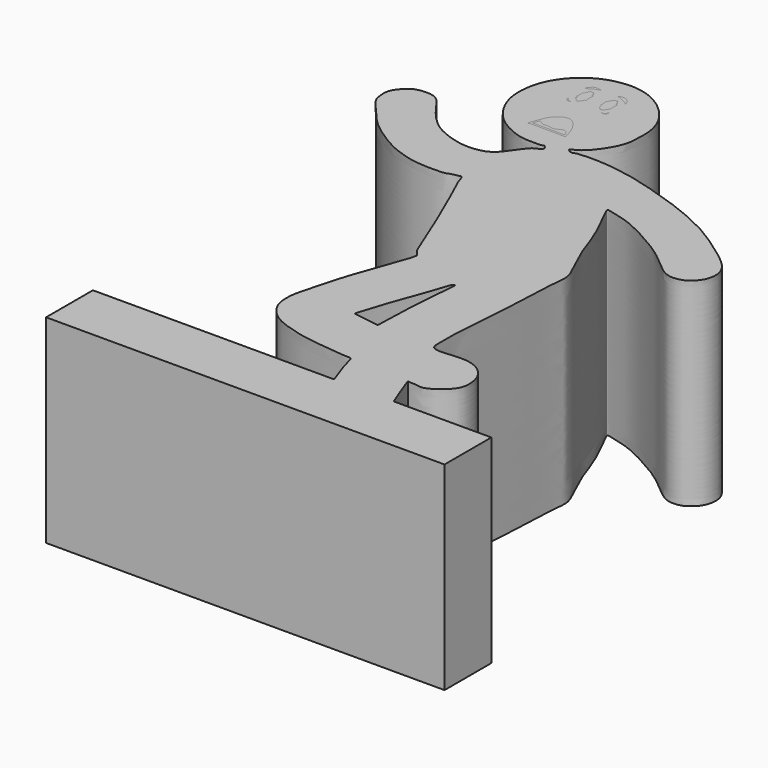
from build123d import *

# Parameters (mm, degrees)
F1_DEPTH = 25.4
F3_DEPTH = 13.208
F4_W     = 50.9416204877
F4_H     = 7.4829496443
F5_DEPTH = 25.4


with BuildPart() as f1:
    # F0 (on Top) → F1 (new body)
    with BuildSketch(Plane.XY):
        with BuildLine():
            add(Edge.make_bspline(
                [(-21.08993195, 9.5600765198), (-21.1685897692, 9.4091182705), (-20.0594582307, 6.6910455314), (-19.1162698159, 4.4145066263), (-19.1494936448, 2.1955928752), (-20.7855126949, 0.2980433548), (-22.3960605382, -0.1274099975), (-24.5052316811, 0.2180920194), (-26.0347691851, 1.4667257913), (-26.6860856519, 4.2843189604), (-28.3852424032, 8.4455278658), (-28.5500824364, 10.0588710768), (-29.4261054338, 9.9297894195), (-31.6957999065, 10.2354212597), (-35.2294887871, 10.5220681782), (-38.9333990973, 11.638606142), (-40.4136311395, 12.6662931309), (-41.3050580251, 13.7311524075), (-41.8752837502, 14.9890735413), (-41.8721922567, 16.4563419307), (-41.7795510658, 17.5719369282), (-40.8533712889, 20.7426107687), (-40.3241774154, 22.9342111756), (-38.649990151, 27.7449240828), (-37.5047599371, 30.7015941127), (-37.5008421698, 31.1432929818), (-37.3606951431, 31.4200321338), (-38.0759170468, 32.0404645519), (-38.746667055, 33.8324144748), (-42.4715972703, 43.0314112934), (-44.2480233196, 46.329761161), (-44.4766088252, 47.5887018031), (-44.8835458012, 47.4760625587), (-45.3968978327, 47.38658875), (-45.9654725869, 47.2544124041), (-46.3092938738, 47.0149404841), (-48.2191451564, 46.9493456256), (-50.4229157415, 47.0819866858), (-52.2507103004, 47.6179288897), (-53.9968632307, 48.2396985342), (-56.2935673274, 49.6302312695), (-58.521335915, 51.259221679), (-60.1099198349, 53.297741144), (-61.7054631646, 54.9664305062), (-61.8788460096, 55.9773840502), (-62.0519767026, 57.325438883), (-61.1312417523, 58.5822296259), (-60.2409778098, 59.4050358096), (-58.5000839274, 59.6297203259), (-56.9063099964, 59.2428635017), (-55.395364805, 56.6292619624), (-53.2088079788, 54.4675655111), (-51.2434970465, 53.567971098), (-49.0893888583, 52.893970619), (-46.6469958819, 52.9509785632), (-44.8954373392, 53.8387946504), (-43.3889679849, 56.3954003879), (-42.6763089855, 56.9045754709), (-41.6911584893, 57.2281018658), (-42.3470273889, 58.031093038), (-42.5551227729, 57.7352813384), (-43.4721167819, 57.7571739854), (-45.1413560911, 57.766126393), (-46.6478574066, 58.2693553489), (-48.9985948597, 59.4571698556), (-50.8471736567, 61.8544217), (-51.6713134269, 64.3749296156), (-51.5626608604, 66.6319696638), (-51.1316898017, 68.3606887752), (-50.0218514343, 70.4440888794), (-48.0916651844, 72.1608308981), (-46.1105464139, 73.1011703865), (-43.5250094612, 73.5307339381), (-41.0530919304, 73.0579949819), (-38.5571021579, 71.583928623), (-36.5907637264, 69.1904423979), (-35.9555416361, 66.7694498913), (-36.0277449357, 64.7289945636), (-36.1711942192, 62.9654313981), (-37.6680610198, 60.4268266922), (-39.1106194457, 59.0772907364), (-40.1678216107, 58.8681336033), (-39.3049098904, 58.3084046117), (-38.988219688, 58.606135063), (-36.8497346997, 58.7332564089), (-34.0993440938, 58.5742671077), (-30.4123179463, 57.8957169478), (-26.6463001352, 56.7070394361), (-22.9657298346, 55.5009834162), (-18.5111187391, 53.4659860837), (-15.0305123546, 51.025777396), (-12.1716292828, 48.9023451337), (-11.2659016375, 47.045883616), (-11.706601054, 45.0795252595), (-12.7958267044, 44.1381711249), (-13.3769251109, 43.7615580271), (-15.1256093501, 43.4136840272), (-16.8246632838, 44.6879524058), (-18.0874699339, 45.7960147009), (-19.6177851366, 47.065920986), (-22.7519190258, 48.9062774728), (-25.8148761691, 50.425509161), (-28.299291266, 50.9186805521), (-29.1133378581, 51.1942513526), (-26.3408626204, 46.4429851819), (-25.3346955398, 42.6965569488), (-23.8830854231, 39.800518843), (-22.6639131467, 37.2366900791), (-23.0379945558, 35.4548972084), (-23.2499594957, 27.1257569454), (-23.9554703909, 20.5251210195), (-23.8085329164, 18.4358688756), (-23.9813732512, 16.4316921182), (-21.1345234347, 16.8127187332), (-18.4169214436, 16.8651242008), (-16.2981757912, 15.1998419699), (-15.8701304511, 12.9556997591), (-16.2198382227, 11.3795080904), (-17.9520673441, 9.9045887348), (-19.2175372275, 9.3074792056), (-20.1194259067, 9.5829552252), (-20.7509358945, 9.534248648), (-20.9608952849, 9.5833016484), (-21.0251809739, 9.5740223583), (-21.0779912686, 9.5829927966), (-21.08993195, 9.5600765198)],
                knots=[0, 0, 0, 0, 0.009512036, 0.0193000241, 0.0275298232, 0.0363054, 0.0436477357, 0.0518791237, 0.0595774742, 0.0694534869, 0.0819406321, 0.0884969231, 0.0930363716, 0.1016281294, 0.1128467842, 0.124171932, 0.1317934205, 0.1384310583, 0.1451866068, 0.1519689866, 0.1582045741, 0.1684009328, 0.177466832, 0.1907114802, 0.2008066994, 0.2042435751, 0.2069768218, 0.2118851901, 0.2199022787, 0.238232844, 0.249818804, 0.255262125, 0.258360081, 0.2626439341, 0.2669594852, 0.2705540297, 0.2783058949, 0.2871494754, 0.2950181836, 0.3028301367, 0.3122661655, 0.3218901027, 0.3313201231, 0.3398893951, 0.3456116796, 0.3521243495, 0.3591573943, 0.3654723586, 0.3728851599, 0.3799678362, 0.3898290577, 0.4000159764, 0.4084163792, 0.4170591852, 0.4258957359, 0.433979101, 0.4437002232, 0.449298396, 0.4542484982, 0.4589564644, 0.4616957086, 0.4670049856, 0.4745076146, 0.4818017352, 0.4910483252, 0.5010669823, 0.5104300306, 0.5189625149, 0.5266196212, 0.5354078276, 0.544624495, 0.5531578562, 0.5623683939, 0.5714496588, 0.5812105171, 0.591295994, 0.6003493305, 0.6084539834, 0.6160931824, 0.6259760731, 0.6342703201, 0.6388424786, 0.6434404955, 0.6470047014, 0.6550669462, 0.6649305241, 0.6760916798, 0.6875554155, 0.6989611204, 0.7117011174, 0.7238035, 0.7345465128, 0.7425295231, 0.7504441058, 0.7571354385, 0.7619260276, 0.7692368512, 0.77753439, 0.7849997987, 0.7930517718, 0.8040401049, 0.815130669, 0.8241711921, 0.8272391589, 0.839602283, 0.8518919706, 0.8622149685, 0.8715066854, 0.8790817383, 0.895784608, 0.9109508946, 0.9192472521, 0.9260745674, 0.9348597964, 0.9446207431, 0.953656471, 0.9620915777, 0.969270306, 0.9778553876, 0.9845741952, 0.990041184, 0.9945854296, 0.9971060556, 0.9985560216, 1, 1, 1, 1], degree=3))
        make_face()
        with BuildLine():
            add(Edge.make_bspline(
                [(-34.4305485487, 17.796754837), (-34.4026945918, 17.8923491272), (-33.6973047797, 20.3218925377), (-32.7902747785, 22.7928631435), (-31.1113825852, 27.3780762037), (-30.8104349498, 28.5836832004), (-30.3152577004, 29.0164002105), (-30.5677135826, 27.1195554184), (-30.959086027, 22.0318057631), (-31.0604014619, 17.764608519), (-31.0686167549, 17.1871771159), (-31.5941528623, 17.2567851558), (-34.0871812587, 17.6437537922), (-34.4742678391, 17.6978508425), (-34.447567195, 17.7373132407), (-34.4338033787, 17.7856569326), (-34.432826172, 17.788938074), (-34.4305485487, 17.796754837)],
                knots=[0, 0, 0, 0, 0.0889001791, 0.1982880398, 0.3301073443, 0.3966527092, 0.4288488125, 0.4963925064, 0.6412947637, 0.7647719035, 0.8002832613, 0.8397151536, 0.9379310967, 0.9703342491, 0.9796618586, 0.9927306157, 1, 1, 1, 1], degree=3))
        make_face(mode=Mode.SUBTRACT)
    extrude(amount=F1_DEPTH)

    # F4 (on Top) → F5 (join)
    with BuildSketch(Plane.XY):
        with Locations((-32.522050431, 1.5829317272)):
            Rectangle(F4_W, F4_H)
    extrude(amount=F5_DEPTH)


with BuildPart() as f3:
    # F2 (on face) → F3 (new body)
    with BuildSketch(Plane.XY.offset(25.4)):
        with BuildLine():
            add(Edge.make_bspline(
                [(-46.6365478933, 60.6375560164), (-46.675144364, 60.6701802166), (-46.5714934911, 61.2290564219), (-46.1133918413, 62.1691243676), (-45.9535418545, 62.8131049377), (-45.1360397478, 63.7073873968), (-44.6966207843, 63.9342376844), (-44.2027851191, 64.0441890848), (-43.6072497846, 63.967389124), (-42.8252698154, 63.2025393795), (-42.1915873664, 61.9728373553), (-41.9712361279, 60.9823966932), (-41.82407912, 60.6713915953), (-42.4137187954, 60.7360554789), (-44.7362982177, 60.660211459), (-46.4065365457, 60.8119383979), (-46.613910747, 60.6184216557), (-46.6365478933, 60.6375560164)],
                knots=[0, 0, 0, 0, 0.0527119518, 0.1312013969, 0.1936127972, 0.2735714957, 0.3264163928, 0.3774960849, 0.433025558, 0.5091339716, 0.5991014845, 0.6741767995, 0.7079464738, 0.7542536169, 0.8723862177, 0.9690840083, 1, 1, 1, 1], degree=3))
        make_face()
        with BuildLine():
            add(Edge.make_bspline(
                [(-46.2903790176, 61.0480867326), (-46.298796503, 61.1285710805), (-46.1651220212, 61.5229957101), (-45.9252386876, 61.9207683405), (-45.4690202227, 61.3077870733), (-44.6313974474, 61.5497852804), (-43.8039834751, 61.1368085369), (-42.7622361272, 62.1428744066), (-42.0938290675, 60.9599270256), (-42.5211259932, 60.983044355), (-46.1084958183, 60.9857195752), (-46.2856967183, 61.0033166155), (-46.2903790176, 61.0480867326)],
                knots=[0, 0, 0, 0, 0.0810880763, 0.1483592501, 0.2339224015, 0.3377977478, 0.4445086863, 0.565911472, 0.674233147, 0.7326276908, 0.9548940536, 1, 1, 1, 1], degree=3))
        make_face(mode=Mode.SUBTRACT)
    extrude(amount=-F3_DEPTH)


with BuildPart() as f3b:
    # F2 (on face) → F3, piece 2 (new body)
    with BuildSketch(Plane.XY.offset(25.4)):
        with BuildLine():
            add(Edge.make_bspline(
                [(-43.0953130126, 67.6898285747), (-43.1610549512, 67.710743838), (-43.289557309, 67.8691113836), (-43.24892842, 68.1074601529), (-43.4183387233, 68.2346150526), (-43.4385050186, 68.3911797392), (-43.4360908479, 68.6055062571), (-43.4204320098, 68.79794301), (-43.5242390989, 69.2609481617), (-43.2804852816, 69.1959147072), (-43.3146631417, 69.4465003988), (-43.3128106971, 69.5589711662), (-43.103939652, 69.489310887), (-43.2436575336, 69.8500476312), (-42.9825760169, 69.749989502), (-43.0498331585, 69.9635217465), (-42.962456012, 69.9398437496), (-42.7556907958, 69.9404928815), (-42.5455018666, 70.028402111), (-42.6291455345, 69.7266720258), (-42.3912374052, 69.8628644804), (-42.5019459483, 69.4931784165), (-42.2309149516, 69.6519977621), (-42.3564133658, 69.2117967254), (-42.105620816, 69.3334060407), (-42.1642235624, 69.0873627537), (-42.1405957404, 68.7147311571), (-42.166403861, 68.3700517776), (-42.099185764, 68.1807915701), (-42.3143856723, 68.1821930028), (-42.2024896929, 67.8256649529), (-42.4595902256, 67.901522503), (-42.347458325, 67.6157761311), (-42.5915858746, 67.7066705996), (-42.474455668, 67.513637122), (-43.0638638558, 67.4555777542), (-42.9620192469, 67.7000480158), (-43.0531805329, 67.6764244688), (-43.0953130126, 67.6898285747)],
                knots=[0, 0, 0, 0, 0.032320928, 0.0637530113, 0.0919656141, 0.1175852147, 0.1471750007, 0.178721253, 0.2193670449, 0.2427654922, 0.2727486141, 0.292029776, 0.3144754343, 0.346050501, 0.3701988535, 0.3943073902, 0.4090681504, 0.4407446279, 0.4663331966, 0.4937366239, 0.5162272592, 0.546771201, 0.5701850171, 0.6045850403, 0.628049455, 0.654642125, 0.6968910419, 0.7365046246, 0.76147675, 0.7849471808, 0.8180917973, 0.841845623, 0.8690316922, 0.8926827835, 0.912857166, 0.955440518, 0.9792862688, 1, 1, 1, 1], degree=3))
        make_face()
    extrude(amount=-F3_DEPTH)


with BuildPart() as f3c:
    # F2 (on face) → F3, piece 3 (new body)
    with BuildSketch(Plane.XY.offset(25.4)):
        with BuildLine():
            add(Edge.make_bspline(
                [(-46.023465693, 67.5422847271), (-45.9584958647, 67.463533066), (-45.5188764591, 67.4743470775), (-45.6798459766, 67.7213260838), (-45.4461044837, 67.6383715898), (-45.5582118651, 67.9034365543), (-45.2972657704, 67.7925006821), (-45.4577470451, 68.1381555466), (-45.1535111365, 68.0701789262), (-45.2072204912, 68.2796703308), (-45.2321505135, 68.635129023), (-45.2301984785, 68.9195054296), (-45.2165510025, 69.187522835), (-45.1974573357, 69.2917307905), (-45.4061515014, 69.2044110803), (-45.3808594747, 69.4751556817), (-45.3442502488, 69.6026762579), (-45.5172437535, 69.5020334036), (-45.4449924497, 69.8457541834), (-45.6623652362, 69.7394442566), (-45.6351149364, 69.9480112366), (-45.7129336777, 69.9034832435), (-45.9813639313, 69.917614482), (-46.0583192502, 69.9324753697), (-45.999286056, 69.775776867), (-46.1674625563, 69.8051291673), (-46.2304205744, 69.7510171712), (-46.1562167871, 69.4844827742), (-46.3403066922, 69.5420457204), (-46.3303788517, 69.4349784865), (-46.2915645574, 69.1884897632), (-46.5244104181, 69.2631579675), (-46.437354969, 69.0490973531), (-46.4647140392, 68.3879415457), (-46.5490851636, 68.220617819), (-46.2347510838, 68.3014993608), (-46.4445983212, 67.8165255639), (-46.1583459924, 67.8454277989), (-46.2549503356, 67.6666498571), (-45.9741130354, 67.7602821039), (-46.0648729374, 67.5924755521), (-46.023465693, 67.5422847271)],
                knots=[0, 0, 0, 0, 0.0402290324, 0.0631485096, 0.0846865294, 0.1094629698, 0.1319002563, 0.1611040393, 0.1876334999, 0.2119657007, 0.2508833505, 0.2861886726, 0.3192851548, 0.3349466837, 0.358032415, 0.3878572088, 0.4069027663, 0.4260693097, 0.455571503, 0.4777737794, 0.5006315222, 0.5153447687, 0.549377386, 0.5634316198, 0.5837128413, 0.6059551209, 0.6227862465, 0.6518476408, 0.6725143189, 0.6906579592, 0.7190056614, 0.7420953089, 0.7670667828, 0.8208298271, 0.8420182654, 0.8676960537, 0.9050401644, 0.9300216361, 0.9493697076, 0.9743608161, 1, 1, 1, 1], degree=3))
        make_face()
    extrude(amount=-F3_DEPTH)


with BuildPart() as f3d:
    # F2 (on face) → F3, piece 4 (new body)
    with BuildSketch(Plane.XY.offset(25.4)):
        with BuildLine():
            add(Edge.make_bspline(
                [(-46.8870177865, 70.283845067), (-46.8695820451, 70.4123941709), (-46.6726210459, 70.562377438), (-46.4203997838, 70.8411639326), (-46.0124237, 70.9443680356), (-45.1748514244, 70.7902943404), (-45.6388764618, 70.7027990885), (-45.9049211915, 70.5655211691), (-46.4236453143, 70.4294371488), (-46.6797533324, 70.124446982), (-46.8311291115, 70.2312712165), (-46.8283586745, 69.9230023956), (-46.9015722089, 70.1765391657), (-46.8870177865, 70.283845067)],
                knots=[0, 0, 0, 0, 0.095203384, 0.190758926, 0.301323726, 0.4247983299, 0.501579431, 0.5969672907, 0.7149667706, 0.8104763615, 0.8607755694, 0.9205293182, 1, 1, 1, 1], degree=3))
        make_face()
    extrude(amount=-F3_DEPTH)


with BuildPart() as f3e:
    # F2 (on face) → F3, piece 5 (new body)
    with BuildSketch(Plane.XY.offset(25.4)):
        with BuildLine():
            add(Edge.make_bspline(
                [(-43.2015769184, 70.7111358643), (-43.1892781227, 70.6883327142), (-42.9716564632, 70.7615883632), (-42.6757656808, 70.596575618), (-42.1680653989, 70.3686207102), (-41.8571552719, 70.1866154767), (-41.5862283753, 69.8964340415), (-41.69376638, 70.2907379773), (-41.8666505531, 70.642645732), (-42.394643241, 70.984782819), (-42.9441701266, 71.02019313), (-43.2175323969, 70.740718856), (-43.2015769184, 70.7111358643)],
                knots=[0, 0, 0, 0, 0.0704935388, 0.167925259, 0.2891473196, 0.3937879522, 0.4727833991, 0.553346723, 0.6602762792, 0.7865103559, 0.908547294, 1, 1, 1, 1], degree=3))
        make_face()
    extrude(amount=-F3_DEPTH)


with BuildPart() as f3f:
    # F2 (on face) → F3, piece 6 (new body)
    with BuildSketch(Plane.XY.offset(25.4)):
        with BuildLine():
            add(Edge.make_bspline(
                [(-42.388305068, 67.05519557), (-42.274995381, 67.0569566883), (-41.959409032, 66.9937693613), (-41.9841132421, 67.1413833419), (-41.7835368289, 67.1351803557), (-41.8417749286, 67.3194764405), (-41.7155432801, 67.6140560105), (-41.666520299, 67.0859711861), (-41.8146635517, 67.0549672429), (-41.8169562165, 66.9096028668), (-42.5500850996, 67.0212994362), (-42.434529332, 67.0544771283), (-42.388305068, 67.05519557)],
                knots=[0, 0, 0, 0, 0.1436547391, 0.2080330128, 0.2914555695, 0.3864577448, 0.4786511823, 0.6147127049, 0.694326249, 0.7649788017, 0.9413965853, 1, 1, 1, 1], degree=3))
        make_face()
    extrude(amount=-F3_DEPTH)


with BuildPart() as f3g:
    # F2 (on face) → F3, piece 7 (new body)
    with BuildSketch(Plane.XY.offset(25.4)):
        with BuildLine():
            add(Edge.make_bspline(
                [(-46.8355342746, 67.4132183194), (-46.8311865706, 67.3675146265), (-46.8331807466, 67.2954454628), (-46.6183333178, 67.1058714083), (-46.564620827, 66.9796061867), (-45.9634718655, 67.0753918322), (-46.4124459887, 66.9339979488), (-46.6092124299, 66.9629760765), (-46.7582914262, 66.9689383254), (-46.7493429846, 67.1648330198), (-46.9234234674, 67.0900459776), (-46.8928774794, 67.2825602477), (-46.8613724541, 67.6015899378), (-46.8396575356, 67.4565626355), (-46.8355342746, 67.4132183194)],
                knots=[0, 0, 0, 0, 0.0673897927, 0.1680534194, 0.2437021513, 0.3642098396, 0.4614237953, 0.5597969977, 0.6265642459, 0.6986470532, 0.7619137793, 0.8414445804, 0.9360890928, 1, 1, 1, 1], degree=3))
        make_face()
    extrude(amount=-F3_DEPTH)


solid = Compound([f1.part, f3.part, f3b.part, f3c.part, f3d.part, f3e.part, f3f.part, f3g.part])
